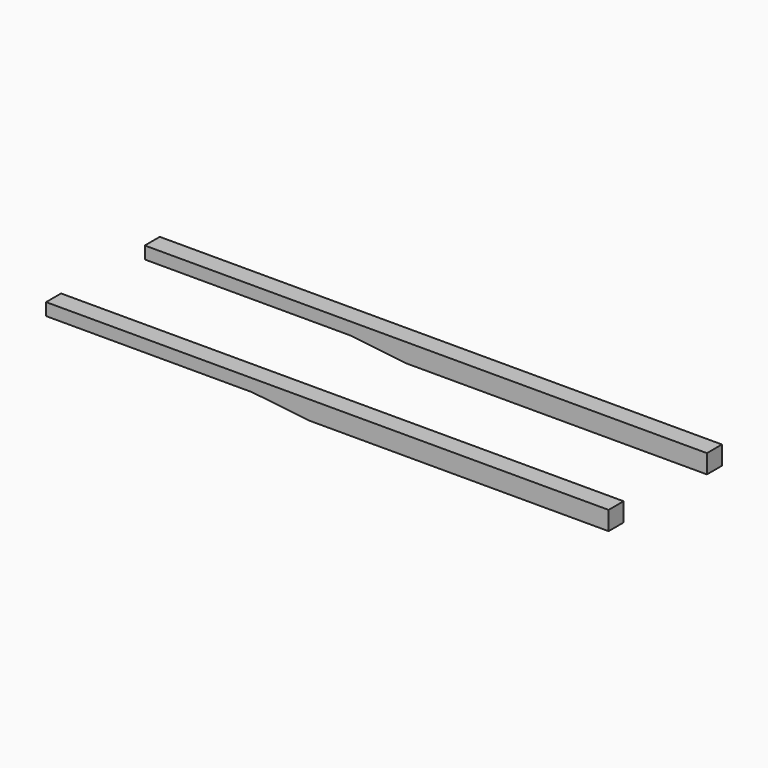
from build123d import *

# Parameters (mm, degrees)
F0_W     = 6.35
F0_H     = 6.35
F1_DEPTH = 101.6
F3_DEPTH = 6.35
F5_DEPTH = 6.35


with BuildPart() as f1:
    # F0 (on Right) → F1 (new body)
    with BuildSketch(Plane.YZ):
        with Locations((-20.8139, 1.003265)):
            Rectangle(F0_W, F0_H)
        with Locations((20.813896, 1.003265)):
            Rectangle(F0_W, F0_H)
    extrude(amount=F1_DEPTH)

    # F2 (on face) → F3 (join)
    with BuildSketch(Plane(origin=(0, -17.6389, 0), x_dir=(-1, 0, 0), z_dir=(0, 1, 0))):
        Polygon((88.9, 4.178265), (0, 4.178265), (0, -2.171735), (19.05, 0), (88.9, 0), align=None)
    extrude(amount=-F3_DEPTH)

    # F4 (on face) → F5 (join)
    with BuildSketch(Plane(origin=(0, 23.988896, 0), x_dir=(-1, 0, 0), z_dir=(0, 1, 0))):
        Polygon((88.777403, 4.178265), (0, 4.178265), (0, -2.171735), (18.927403, -0.013976), (88.777403, 0), align=None)
    extrude(amount=-F5_DEPTH)


solid = f1.part
